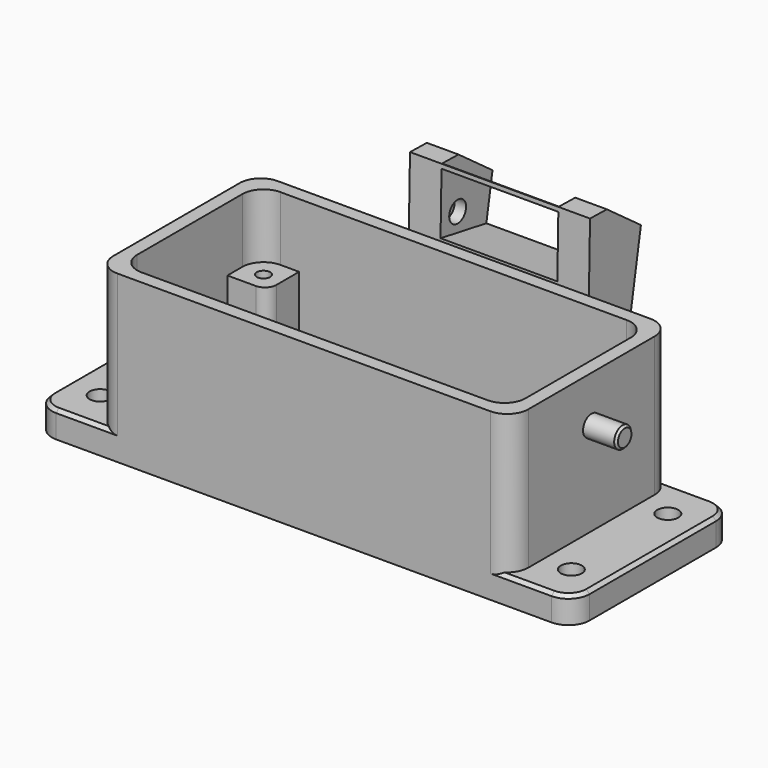
from build123d import *

# Parameters (mm, degrees)
F0_R         = 1.5875
F1_DEPTH     = 4
F3_DEPTH     = 21
F4_SIZE      = 0.508
F5_R         = 1.5875
F6_DEPTH     = 5
F7_R         = 1.5875
F8_DEPTH     = 5.0038
F9_SIZE      = 0.3175
F12_DEPTH    = 9
F17_D        = 2
F17_ON_F14_D = 2
F17_ON_F16_D = 2
F17_ON_F15_D = 2
F19_DEPTH    = 12.00658
F21_DEPTH    = 27.1145
F22_W        = 17.5895
F22_H        = 9.525
F22_H_2      = 12.7
F23_DEPTH    = 10.16
F25_R        = 1.5875
F26_DEPTH    = 1.7145
F24_R        = 1.5875
F27_DEPTH    = 1.7145


with BuildPart() as f1:
    # F0 (on Top) → F1 (new body)
    with BuildSketch(Plane.XY):
        with BuildLine():
            Line((37.30625, 15.08125), (-37.30625, 15.08125))
            ThreePointArc((-37.30625, 15.08125), (-39.5513140303, 14.1513140303), (-40.48125, 11.90625))
            Line((-40.48125, 11.90625), (-40.48125, -11.90625))
            ThreePointArc((-40.48125, -11.90625), (-39.5513140303, -14.1513140303), (-37.30625, -15.08125))
            Line((-37.30625, -15.08125), (37.30625, -15.08125))
            ThreePointArc((37.30625, -15.08125), (39.5513140303, -14.1513140303), (40.48125, -11.90625))
            Line((40.48125, -11.90625), (40.48125, 11.90625))
            ThreePointArc((40.48125, 11.90625), (39.5513140303, 14.1513140303), (37.30625, 15.08125))
        make_face()
        with Locations((-35.48125, -9.08125)):
            Circle(F0_R, mode=Mode.SUBTRACT)
        with Locations((35.48125, -9.08125)):
            Circle(F0_R, mode=Mode.SUBTRACT)
        with Locations((-35.48125, 9.08125)):
            Circle(F0_R, mode=Mode.SUBTRACT)
        with BuildLine():
            ThreePointArc((-29.25, 9.90625), (-28.3200640303, 12.1513140303), (-26.075, 13.08125))
            Line((-26.075, 13.08125), (26.075, 13.08125))
            ThreePointArc((26.075, 13.08125), (28.3200640303, 12.1513140303), (29.25, 9.90625))
            Line((29.25, 9.90625), (29.25, -9.90625))
            ThreePointArc((29.25, -9.90625), (28.3200640303, -12.1513140303), (26.075, -13.08125))
            Line((26.075, -13.08125), (-26.075, -13.08125))
            ThreePointArc((-26.075, -13.08125), (-28.3200640303, -12.1513140303), (-29.25, -9.90625))
            Line((-29.25, -9.90625), (-29.25, 9.90625))
        make_face(mode=Mode.SUBTRACT)
        with Locations((35.48125, 9.08125)):
            Circle(F0_R, mode=Mode.SUBTRACT)
    extrude(amount=F1_DEPTH)

    # F2 (on face) → F3 (join)
    with BuildSketch(Plane.XY.offset(4)):
        with BuildLine():
            Line((28.075, 15.08125), (-28.075, 15.08125))
            ThreePointArc((-28.075, 15.08125), (-30.3200640303, 14.1513140303), (-31.25, 11.90625))
            Line((-31.25, 11.90625), (-31.25, -11.90625))
            ThreePointArc((-31.25, -11.90625), (-30.3200640303, -14.1513140303), (-28.075, -15.08125))
            Line((-28.075, -15.08125), (28.075, -15.08125))
            ThreePointArc((28.075, -15.08125), (30.3200640303, -14.1513140303), (31.25, -11.90625))
            Line((31.25, -11.90625), (31.25, 11.90625))
            ThreePointArc((31.25, 11.90625), (30.3200640303, 14.1513140303), (28.075, 15.08125))
        make_face()
        with BuildLine():
            ThreePointArc((-29.25, 9.90625), (-28.3200640303, 12.1513140303), (-26.075, 13.08125))
            Line((-26.075, 13.08125), (26.075, 13.08125))
            ThreePointArc((26.075, 13.08125), (28.3200640303, 12.1513140303), (29.25, 9.90625))
            Line((29.25, 9.90625), (29.25, -9.90625))
            ThreePointArc((29.25, -9.90625), (28.3200640303, -12.1513140303), (26.075, -13.08125))
            Line((26.075, -13.08125), (-26.075, -13.08125))
            ThreePointArc((-26.075, -13.08125), (-28.3200640303, -12.1513140303), (-29.25, -9.90625))
            Line((-29.25, -9.90625), (-29.25, 9.90625))
        make_face(mode=Mode.SUBTRACT)
    extrude(amount=F3_DEPTH)

    # F4
    f4_edges = [f1.edges().sort_by_distance(p)[0] for p in [
        (32.690625, -15.08125, 4),
        (39.551314, -14.151314, 4),
        (40.48125, 0, 4),
        (39.551314, 14.151314, 4),
        (32.690625, 15.08125, 4),
        (-32.690625, -15.08125, 4),
        (-39.551314, -14.151314, 4),
        (-40.48125, 0, 4),
        (-39.551314, 14.151314, 4),
        (-32.690625, 15.08125, 4),
    ]]
    chamfer(f4_edges, length=F4_SIZE)

    # F5 (on face) → F6 (join)
    with BuildSketch(Plane.YZ.offset(31.25)):
        with Locations((0, 18)):
            Circle(F5_R)
    extrude(amount=F6_DEPTH)

    # F7 (on face) → F8 (join)
    with BuildSketch(Plane(origin=(-31.25, 0, 0), x_dir=(0, -1, 0), z_dir=(-1, 0, 0))):
        with Locations((0, 17.9896)):
            Circle(F7_R)
    extrude(amount=F8_DEPTH)

    # F9
    f9_edges = [f1.edges().sort_by_distance(p)[0] for p in [
        (36.25, -1.5875, 18),
        (-36.2538, 1.5875, 17.9896),
    ]]
    chamfer(f9_edges, length=F9_SIZE)

    # F11 (on offset) → F12 (join)
    with BuildSketch(Plane.XY.offset(6.35)):
        with BuildLine():
            Line((-29.25, 13.08125), (-29.25, 7.08125))
            Line((-29.25, 7.08125), (-24.9645, 7.08125))
            ThreePointArc((-24.9645, 7.08125), (-23.7521654237, 7.5834154237), (-23.25, 8.79575))
            Line((-23.25, 8.79575), (-23.25, 13.08125))
            Line((-23.25, 13.08125), (-29.25, 13.08125))
        make_face()
        with BuildLine():
            ThreePointArc((-23.25, -8.79575), (-23.7521654237, -7.5834154237), (-24.9645, -7.08125))
            Line((-24.9645, -7.08125), (-29.25, -7.08125))
            Line((-29.25, -7.08125), (-29.25, -13.08125))
            Line((-29.25, -13.08125), (-23.25, -13.08125))
            Line((-23.25, -13.08125), (-23.25, -8.79575))
        make_face()
        with BuildLine():
            Line((29.25, -7.08125), (24.9645, -7.08125))
            ThreePointArc((24.9645, -7.08125), (23.7521654237, -7.5834154237), (23.25, -8.79575))
            Line((23.25, -8.79575), (23.25, -13.08125))
            Line((23.25, -13.08125), (29.25, -13.08125))
            Line((29.25, -13.08125), (29.25, -7.08125))
        make_face()
        with BuildLine():
            ThreePointArc((23.25, 8.79575), (23.7521654237, 7.5834154237), (24.9645, 7.08125))
            Line((24.9645, 7.08125), (29.25, 7.08125))
            Line((29.25, 7.08125), (29.25, 13.08125))
            Line((29.25, 13.08125), (23.25, 13.08125))
            Line((23.25, 13.08125), (23.25, 8.79575))
        make_face()
    extrude(amount=F12_DEPTH)

    # F17 (through all)
    with Locations(Plane.XY.offset(15.35)):
        with Locations((-26.075, 9.90625)):
            Hole(F17_D / 2)

    # F17 on F14 (through all)
    with Locations(Plane.XY.offset(15.35)):
        with Locations((-26.075, -9.90625)):
            Hole(F17_ON_F14_D / 2)

    # F17 on F16 (through all)
    with Locations(Plane.XY.offset(15.35)):
        with Locations((26.075, -9.90625)):
            Hole(F17_ON_F16_D / 2)

    # F17 on F15 (through all)
    with Locations(Plane.XY.offset(15.35)):
        with Locations((26.075, 9.90625)):
            Hole(F17_ON_F15_D / 2)

    # F18 (on face) → F19 (join)
    with BuildSketch(Plane(origin=(0, 15.08125, 0), x_dir=(-1, 0, 0), z_dir=(0, 1, 0))):
        with BuildLine():
            Line((-3.175, 4.5), (-13.49375, 4.5))
            Line((-13.49375, 4.5), (-13.49375, 1))
            Line((-13.49375, 1), (13.49375, 1))
            Line((13.49375, 1), (13.49375, 4.5))
            Line((13.49375, 4.5), (3.175, 4.5))
            ThreePointArc((3.175, 4.5), (0, 7.675), (-3.175, 4.5))
        make_face()
    extrude(amount=F19_DEPTH)

    # F20 (on face) → F21 (join)
    with BuildSketch(Plane.YZ.offset(13.49375)):
        Polygon((21.43125, 7.35), (21.43125, 1), (27.08783, 1), (31.4984937127, 26.0141169265), (25.0925369558, 30.7010801522), (21.9182232609, 30.7670920161), align=None)
    extrude(amount=-F21_DEPTH)

    # F22 (on face) → F23 (cut)
    with BuildSketch(Plane(origin=(0, 26.1000219104, -4.6021380599), x_dir=(-1, 0, 0), z_dir=(0, 0.984807753, -0.1736481777))):
        with Locations((0.0635, 12.1655600695)):
            Rectangle(F22_W, F22_H)
        with Locations((0.0635, 30.7710600695)):
            Rectangle(F22_W, F22_H_2)
    extrude(amount=-F23_DEPTH, mode=Mode.SUBTRACT)

    # F25 (on face) → F26 (cut)
    with BuildSketch(Plane(origin=(8.73125, 0, 0), x_dir=(0, -1, 0), z_dir=(-1, 0, 0))):
        with Locations((-24.9453486986, 23.623235759)):
            Circle(F25_R)
    extrude(amount=-F26_DEPTH, mode=Mode.SUBTRACT)

    # F24 (on face) → F27 (cut)
    with BuildSketch(Plane.YZ.offset(-8.85825)):
        with Locations((24.9363394923, 23.1900098967)):
            Circle(F24_R)
    extrude(amount=-F27_DEPTH, mode=Mode.SUBTRACT)


solid = f1.part
